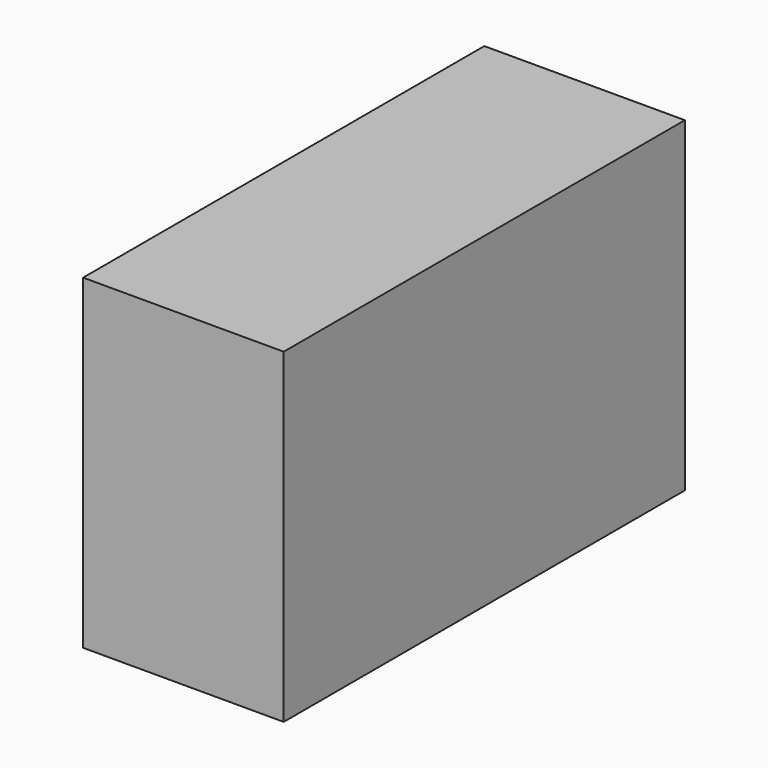
from build123d import *

# Parameters (mm, degrees)
F0_W     = 300
F0_H     = 195
F1_DEPTH = 60
F3_DEPTH = 180
F7_DEPTH = 121.842539816


with BuildPart() as f1:
    # F0 (on Right) → F1 (new body, symmetric)
    with BuildSketch(Plane.YZ):
        with Locations((-20, -97.5)):
            Rectangle(F0_W, F0_H)
    extrude(amount=F1_DEPTH, both=True)

    # F2 (on face) → F3 (cut)
    with BuildSketch(Plane(origin=(0, 130, 0), x_dir=(-1, 0, 0), z_dir=(0, 1, 0))):
        Polygon((60, -145), (10, -195), (60, -195), align=None)
    extrude(amount=-F3_DEPTH, mode=Mode.SUBTRACT)

    # F6 (on 3pt) → F7 (cut, through all)
    with BuildSketch(Plane(origin=(-60.618556701, 50.5154639175, -60.618556701), x_dir=(0.7930107057, 0.3900052651, -0.4680063181), z_dir=(-0.6092076991, 0.5076730826, -0.6092076991))):
        Polygon((0.7800105302, 209.3402986903), (0.7800105302, 131.2378019312), (63.8308617224, 163.2470219144), align=None)
    extrude(amount=F7_DEPTH, mode=Mode.SUBTRACT)


solid = f1.part
